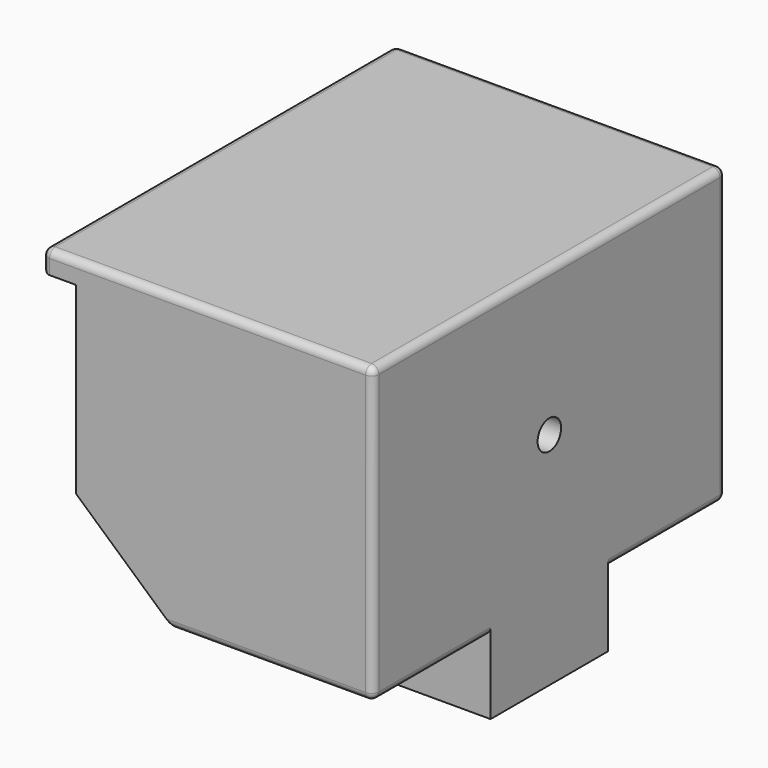
from build123d import *

# Parameters (mm, degrees)
F0_W      = 25.3
F0_H      = 20
F1_DEPTH  = 5
F2_R      = 2.5
F3_DEPTH  = 5
F4_W      = 45
F4_H      = 60
F5_DEPTH  = 40
F6_W      = 54
F6_H      = 34
F7_DEPTH  = 42
F9_DEPTH  = 60
F10_W     = 58
F10_H     = 25
F11_DEPTH = 3
F12_W     = 17
F12_H     = 58
F13_DEPTH = 3
F14_R     = 1
F15_R     = 1
F17_DEPTH = 55
F18_R     = 3.5
F19_DEPTH = 10
F20_R     = 2
F21_DEPTH = 25
F23_DEPTH = 55


with BuildPart() as f1:
    # F0 (on Top) → F1 (new body, symmetric)
    with BuildSketch(Plane.XY):
        Rectangle(F0_W, F0_H)
    extrude(amount=F1_DEPTH, both=True)

    # F2 (on face) → F3 (cut)
    with BuildSketch(Plane(origin=(0, 0, -5), x_dir=(1, 0, 0), z_dir=(0, 0, -1))):
        with Locations((7.65, 5)):
            Circle(F2_R)
        with Locations((7.65, -5)):
            Circle(F2_R)
        with Locations((-7.65, -5)):
            Circle(F2_R)
        with Locations((-7.65, 5)):
            Circle(F2_R)
    extrude(amount=-F3_DEPTH, mode=Mode.SUBTRACT)

    # F4 (on face) → F5 (join)
    with BuildSketch(Plane.XY.offset(5)):
        with Locations((-9.85, 0)):
            Rectangle(F4_W, F4_H)
    extrude(amount=F5_DEPTH)

    # F6 (on face) → F7 (cut)
    with BuildSketch(Plane(origin=(-32.35, 0, 0), x_dir=(0, -1, 0), z_dir=(-1, 0, 0))):
        with Locations((0, 25)):
            Rectangle(F6_W, F6_H)
    extrude(amount=-F7_DEPTH, mode=Mode.SUBTRACT)

    # F8 (on face) → F9 (cut)
    with BuildSketch(Plane.XZ.offset(30)):
        Polygon((-27.766407865, 42), (-32.35, 42), (-32.35, 5), (-14.35, 5), (-27.766407865, 17), align=None)
    extrude(amount=-F9_DEPTH, mode=Mode.SUBTRACT)

    # F10 (on face) → F11 (cut)
    with BuildSketch(Plane(origin=(-27.766407865, 0, 0), x_dir=(0, -1, 0), z_dir=(-1, 0, 0))):
        with Locations((0, 29.5)):
            Rectangle(F10_W, F10_H)
    extrude(amount=-F11_DEPTH, mode=Mode.SUBTRACT)

    # F12 (on face) → F13 (cut)
    with BuildSketch(Plane(origin=(-3.8932578028, 0, -4.3527945505), x_dir=(0.7453559925, 0, -0.6666666667), z_dir=(-0.6666666667, 0, -0.7453559925))):
        with Locations((-23.5291918257, 0)):
            Rectangle(F12_W, F12_H)
    extrude(amount=-F13_DEPTH, mode=Mode.SUBTRACT)

    # F14
    f14_edges = [f1.edges().sort_by_distance(p)[0] for p in [
        (12.65, -30, 25),
        (-9.85, -30, 45),
        (12.65, 0, 45),
        (12.65, 30, 25),
        (-9.85, 30, 45),
    ]]
    fillet(f14_edges, radius=F14_R)

    # F15
    f15_edges = [f1.edges().sort_by_distance(p)[0] for p in [
        (-32.35, 0, 42),
        (-32.35, 0, 45),
        (-1.35, -30, 5),
        (-1.35, 30, 5),
    ]]
    fillet(f15_edges, radius=F15_R)

    # F16 (on face) → F17 (join)
    with BuildSketch(Plane.XZ.offset(-27)):
        Polygon((-21.1683316536, 42), (-24.766407865, 42), (-24.766407865, 40.5), (-23.766407865, 40.5), align=None)
    extrude(amount=F17_DEPTH)

    # F18 (on face) → F19 (join)
    with BuildSketch(Plane.YZ.offset(12.65)):
        with Locations((0, 25)):
            Circle(F18_R)
    extrude(amount=-F19_DEPTH)

    # F20 (on face) → F21 (cut)
    with BuildSketch(Plane(origin=(2.65, 0, 0), x_dir=(0, -1, 0), z_dir=(-1, 0, 0))):
        with Locations((0, 25)):
            Circle(F20_R)
    extrude(amount=-F21_DEPTH, mode=Mode.SUBTRACT)

    # F22 (on face) → F23 (join)
    with BuildSketch(Plane(origin=(0, -27, 0), x_dir=(-1, 0, 0), z_dir=(0, 1, 0))):
        Polygon((13.2041019662, 8), (14.322135955, 9), (10.2041019662, 8), align=None)
    extrude(amount=F23_DEPTH)


solid = f1.part
